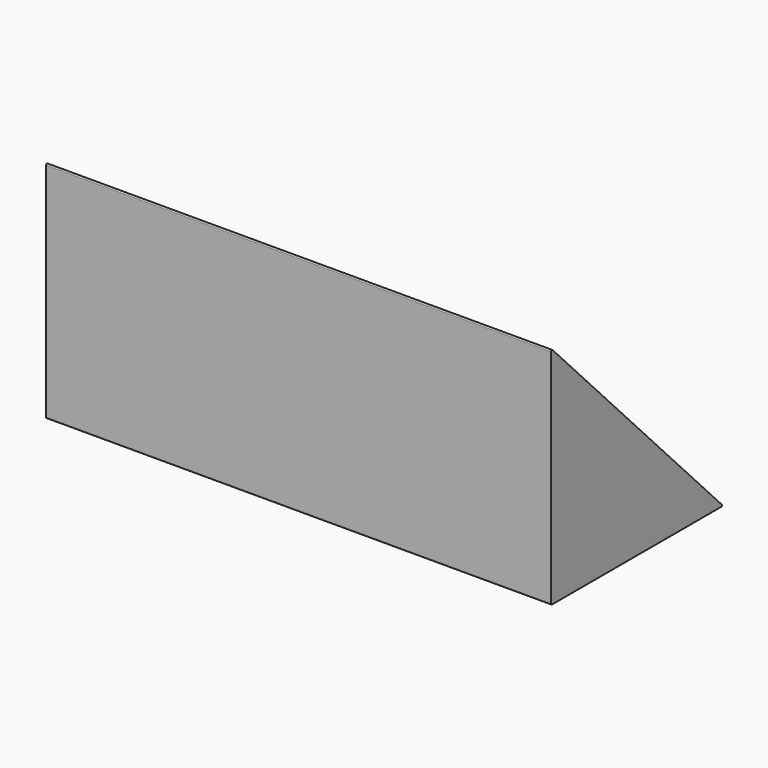
from build123d import *

# Parameters (mm, degrees)
F1_DEPTH = 470
F2_R     = 1


with BuildPart() as f1:
    # F0 (on Right) → F1 (new body)
    with BuildSketch(Plane.YZ):
        Polygon((0, 210), (0, 0), (200, 0), align=None)
    extrude(amount=F1_DEPTH)

    # F2
    f2_edges = [f1.edges().sort_by_distance(p)[0] for p in [
        (235, 0, 210),
        (235, 200, 0),
        (235, 0, 0),
    ]]
    fillet(f2_edges, radius=F2_R)


solid = f1.part
